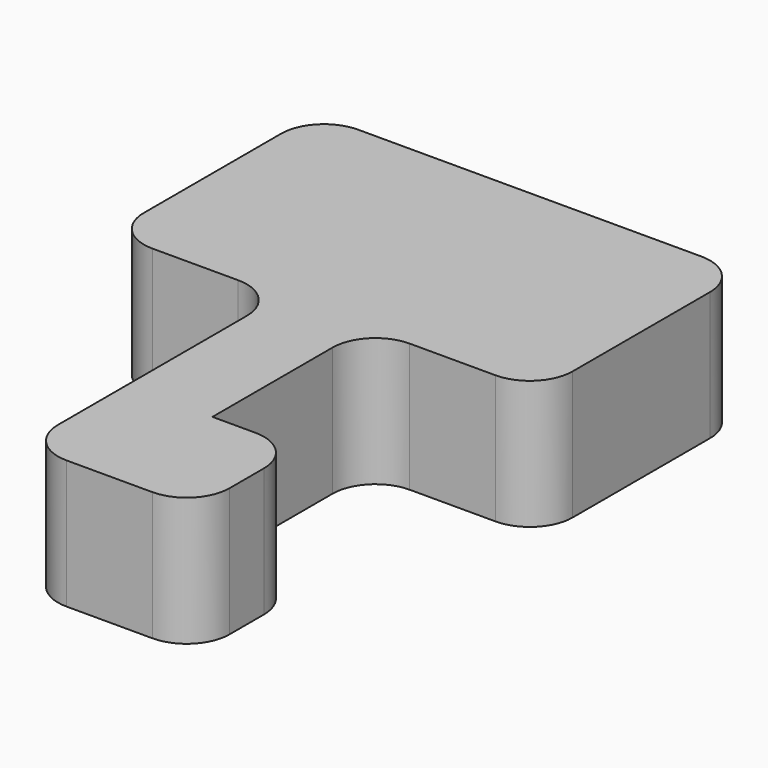
from build123d import *

# Parameters (mm, degrees)
F1_DEPTH = 3


with BuildPart() as f1:
    # F0 (on Top) → F1 (new body)
    with BuildSketch(Plane.XY):
        with BuildLine():
            Line((-3, 0), (-1, 0))
            ThreePointArc((-1, 0), (-0.292893, 0.292893), (0, 1))
            Line((0, 1), (0, 5))
            ThreePointArc((0, 5), (-0.292893, 5.707107), (-1, 6))
            Line((-1, 6), (-9, 6))
            ThreePointArc((-9, 6), (-9.707107, 5.707107), (-10, 5))
            Line((-10, 5), (-10, 1))
            ThreePointArc((-10, 1), (-9.707107, 0.292893), (-9, 0))
            Line((-9, 0), (-7, 0))
            ThreePointArc((-7, 0), (-6.292893, -0.292893), (-6, -1))
            Line((-6, -1), (-6, -6.5))
            ThreePointArc((-6, -6.5), (-5.707107, -7.207107), (-5, -7.5))
            Line((-5, -7.5), (-3, -7.5))
            ThreePointArc((-3, -7.5), (-2.292893, -7.207107), (-2, -6.5))
            Line((-2, -6.5), (-2, -5.5))
            ThreePointArc((-2, -5.5), (-2.292893, -4.792893), (-3, -4.5))
            Line((-3, -4.5), (-4, -4.5))
            Line((-4, -4.5), (-4, -1))
            ThreePointArc((-4, -1), (-3.707107, -0.292893), (-3, 0))
        make_face()
    extrude(amount=F1_DEPTH)


solid = f1.part
